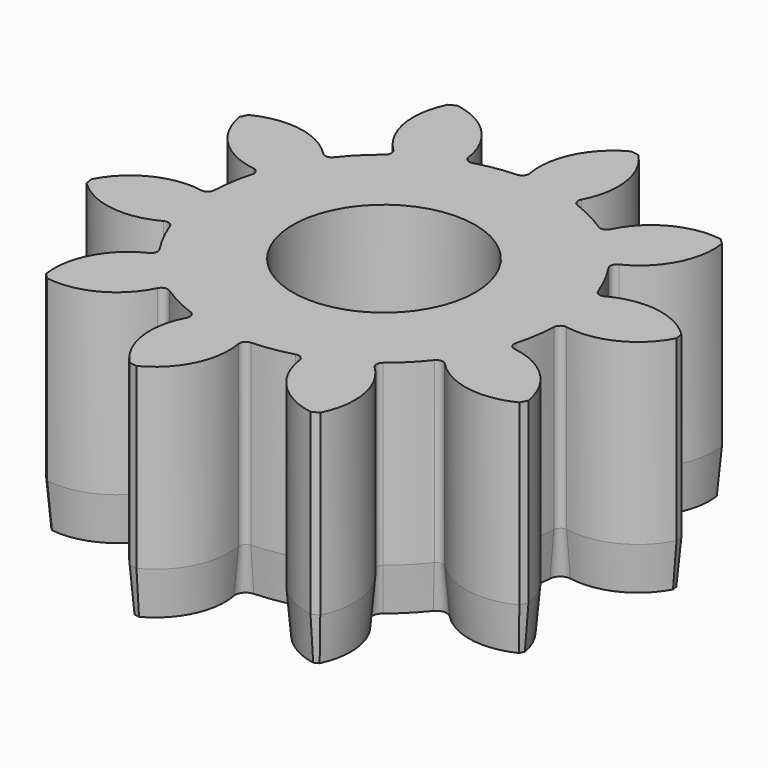
from build123d import *

# Parameters (mm, degrees)
F4_DEPTH  = 8
F6_COUNT  = 10
F6_ANGLE  = 324
F7_R      = 7.9
F7_R_2    = 4.1
F8_DEPTH  = 8
F8_FACE_R = 4.1
F9_DEPTH  = 2
F9_TAPER  = 5


with BuildPart() as f4:
    # F3 (on Top) → F4 (new body)
    with BuildSketch(Plane.XY):
        with BuildLine():
            ThreePointArc((-0.0543494524, 8.2453851705), (-0.1155472635, 8.0049468092), (-0.3368663268, 7.8928145219))
            ThreePointArc((-0.3368663268, 7.8928145219), (1.2358322738, 7.8027378907), (2.759392736, 7.4024152632))
            ThreePointArc((2.759392736, 7.4024152632), (2.583556581, 7.5774507574), (2.5996535437, 7.8250323913))
            ThreePointArc((2.5996535437, 7.8250323913), (2.9578363171, 9.8680236351), (2.0337135836, 11.7249310898))
            Line((2.0337135836, 11.7249310898), (1.6890264086, 11.7795241751))
            ThreePointArc((1.6890264086, 11.7795241751), (0.2363175007, 10.2990698697), (-0.0543494524, 8.2453851705))
        make_face()
    extrude(amount=F4_DEPTH)


with BuildPart() as f6_1:
    # F6: instance of F4
    add(f4.part.rotate(Axis((0, 0, 6), (0, 0, 1)), 1 * F6_ANGLE / (F6_COUNT - 1)))


with BuildPart() as f6_2:
    # F6: instance of F4
    add(f4.part.rotate(Axis((0, 0, 6), (0, 0, 1)), 2 * F6_ANGLE / (F6_COUNT - 1)))


with BuildPart() as f6_3:
    # F6: instance of F4
    add(f4.part.rotate(Axis((0, 0, 6), (0, 0, 1)), 3 * F6_ANGLE / (F6_COUNT - 1)))


with BuildPart() as f6_4:
    # F6: instance of F4
    add(f4.part.rotate(Axis((0, 0, 6), (0, 0, 1)), 4 * F6_ANGLE / (F6_COUNT - 1)))


with BuildPart() as f6_5:
    # F6: instance of F4
    add(f4.part.rotate(Axis((0, 0, 6), (0, 0, 1)), 5 * F6_ANGLE / (F6_COUNT - 1)))


with BuildPart() as f6_6:
    # F6: instance of F4
    add(f4.part.rotate(Axis((0, 0, 6), (0, 0, 1)), 6 * F6_ANGLE / (F6_COUNT - 1)))


with BuildPart() as f6_7:
    # F6: instance of F4
    add(f4.part.rotate(Axis((0, 0, 6), (0, 0, 1)), 7 * F6_ANGLE / (F6_COUNT - 1)))


with BuildPart() as f6_8:
    # F6: instance of F4
    add(f4.part.rotate(Axis((0, 0, 6), (0, 0, 1)), 8 * F6_ANGLE / (F6_COUNT - 1)))


with BuildPart() as f6_9:
    # F6: instance of F4
    add(f4.part.rotate(Axis((0, 0, 6), (0, 0, 1)), 9 * F6_ANGLE / (F6_COUNT - 1)))


with BuildPart() as f4_1:
    add(f4.part)

    add(f6_1.part)  # F8 merges F6_1

    add(f6_2.part)  # F8 merges F6_2

    add(f6_3.part)  # F8 merges F6_3

    add(f6_4.part)  # F8 merges F6_4

    add(f6_5.part)  # F8 merges F6_5

    add(f6_6.part)  # F8 merges F6_6

    add(f6_7.part)  # F8 merges F6_7

    add(f6_8.part)  # F8 merges F6_8

    add(f6_9.part)  # F8 merges F6_9
    # F7 (on Top) → F8 (join)
    with BuildSketch(Plane.XY):
        Circle(F7_R)
        Circle(F7_R_2, mode=Mode.SUBTRACT)
    extrude(amount=F8_DEPTH)

    # F8_face (on face) → F9 (join)
    with BuildSketch(Plane(origin=(0, 0, 0), x_dir=(1, 0, 0), z_dir=(0, 0, -1))):
        with BuildLine():
            ThreePointArc((2.5996535437, -7.8250323913), (2.583556581, -7.5774507574), (2.759392736, -7.4024152632))
            ThreePointArc((2.759392736, -7.4024152632), (3.5865249479, -7.0389515411), (4.3667493918, -6.5834261406))
            ThreePointArc((4.3667493918, -6.5834261406), (4.61170998, -6.5440549852), (4.8025461721, -6.7026025347))
            ThreePointArc((4.8025461721, -6.7026025347), (6.2448262559, -8.1932186091), (8.2902816576, -8.5370504296))
            Line((8.2902816576, -8.5370504296), (8.5370504296, -8.2902816576))
            ThreePointArc((8.5370504296, -8.2902816576), (8.1932186091, -6.2448262559), (6.7026025347, -4.8025461721))
            ThreePointArc((6.7026025347, -4.8025461721), (6.5440549852, -4.61170998), (6.5834261406, -4.3667493918))
            ThreePointArc((6.5834261406, -4.3667493918), (7.0389515411, -3.5865249479), (7.4024152632, -2.759392736))
            ThreePointArc((7.4024152632, -2.759392736), (7.5774507574, -2.583556581), (7.8250323913, -2.5996535437))
            ThreePointArc((7.8250323913, -2.5996535437), (9.8680236351, -2.9578363171), (11.7249310898, -2.0337135836))
            Line((11.7249310898, -2.0337135836), (11.7795241751, -1.6890264086))
            ThreePointArc((11.7795241751, -1.6890264086), (10.2990698697, -0.2363175007), (8.2453851705, 0.0543494524))
            ThreePointArc((8.2453851705, 0.0543494524), (8.0049468092, 0.1155472635), (7.8928145219, 0.3368663268))
            ThreePointArc((7.8928145219, 0.3368663268), (7.8027378907, 1.2358322738), (7.6106101028, 2.1186349055))
            ThreePointArc((7.6106101028, 2.1186349055), (7.6488628936, 2.3637726252), (7.8586222002, 2.496274742))
            ThreePointArc((7.8586222002, 2.496274742), (9.7219713876, 3.4073389149), (10.6810553613, 5.2464327279))
            Line((10.6810553613, 5.2464327279), (10.522620057, 5.5573795206))
            ThreePointArc((10.522620057, 5.5573795206), (8.4710264926, 5.8624565076), (6.6387109215, 4.8904854333))
            ThreePointArc((6.6387109215, 4.8904854333), (6.4082210303, 4.7986693797), (6.1874160228, 4.9118105583))
            ThreePointArc((6.1874160228, 4.9118105583), (5.5861435714, 5.5861435714), (4.9118105583, 6.1874160228))
            ThreePointArc((4.9118105583, 6.1874160228), (4.7986693797, 6.4082210303), (4.8904854333, 6.6387109215))
            ThreePointArc((4.8904854333, 6.6387109215), (5.8624565076, 8.4710264926), (5.5573795206, 10.522620057))
            Line((5.5573795206, 10.522620057), (5.2464327279, 10.6810553613))
            ThreePointArc((5.2464327279, 10.6810553613), (3.4073389149, 9.7219713876), (2.496274742, 7.8586222002))
            ThreePointArc((2.496274742, 7.8586222002), (2.3637726252, 7.6488628936), (2.1186349055, 7.6106101028))
            ThreePointArc((2.1186349055, 7.6106101028), (1.2358322738, 7.8027378907), (0.3368663268, 7.8928145219))
            ThreePointArc((0.3368663268, 7.8928145219), (0.1155472635, 8.0049468092), (0.0543494524, 8.2453851705))
            ThreePointArc((0.0543494524, 8.2453851705), (-0.2363175007, 10.2990698697), (-1.6890264086, 11.7795241751))
            Line((-1.6890264086, 11.7795241751), (-2.0337135836, 11.7249310898))
            ThreePointArc((-2.0337135836, 11.7249310898), (-2.9578363171, 9.8680236351), (-2.5996535437, 7.8250323913))
            ThreePointArc((-2.5996535437, 7.8250323913), (-2.583556581, 7.5774507574), (-2.759392736, 7.4024152632))
            ThreePointArc((-2.759392736, 7.4024152632), (-3.5865249479, 7.0389515411), (-4.3667493918, 6.5834261406))
            ThreePointArc((-4.3667493918, 6.5834261406), (-4.61170998, 6.5440549852), (-4.8025461721, 6.7026025347))
            ThreePointArc((-4.8025461721, 6.7026025347), (-6.2448262559, 8.1932186091), (-8.2902816576, 8.5370504296))
            Line((-8.2902816576, 8.5370504296), (-8.5370504296, 8.2902816576))
            ThreePointArc((-8.5370504296, 8.2902816576), (-8.1932186091, 6.2448262559), (-6.7026025347, 4.8025461721))
            ThreePointArc((-6.7026025347, 4.8025461721), (-6.5440549852, 4.61170998), (-6.5834261406, 4.3667493918))
            ThreePointArc((-6.5834261406, 4.3667493918), (-7.0389515411, 3.5865249479), (-7.4024152632, 2.759392736))
            ThreePointArc((-7.4024152632, 2.759392736), (-7.5774507574, 2.583556581), (-7.8250323913, 2.5996535437))
            ThreePointArc((-7.8250323913, 2.5996535437), (-9.8680236351, 2.9578363171), (-11.7249310898, 2.0337135836))
            Line((-11.7249310898, 2.0337135836), (-11.7795241751, 1.6890264086))
            ThreePointArc((-11.7795241751, 1.6890264086), (-10.2990698697, 0.2363175007), (-8.2453851705, -0.0543494524))
            ThreePointArc((-8.2453851705, -0.0543494524), (-8.0049468092, -0.1155472635), (-7.8928145219, -0.3368663268))
            ThreePointArc((-7.8928145219, -0.3368663268), (-7.8027378907, -1.2358322738), (-7.6106101028, -2.1186349055))
            ThreePointArc((-7.6106101028, -2.1186349055), (-7.6488628936, -2.3637726252), (-7.8586222002, -2.496274742))
            ThreePointArc((-7.8586222002, -2.496274742), (-9.7219713876, -3.4073389149), (-10.6810553613, -5.2464327279))
            Line((-10.6810553613, -5.2464327279), (-10.522620057, -5.5573795206))
            ThreePointArc((-10.522620057, -5.5573795206), (-8.4710264926, -5.8624565076), (-6.6387109215, -4.8904854333))
            ThreePointArc((-6.6387109215, -4.8904854333), (-6.4082210303, -4.7986693797), (-6.1874160228, -4.9118105583))
            ThreePointArc((-6.1874160228, -4.9118105583), (-5.5861435714, -5.5861435714), (-4.9118105583, -6.1874160228))
            ThreePointArc((-4.9118105583, -6.1874160228), (-4.7986693797, -6.4082210303), (-4.8904854333, -6.6387109215))
            ThreePointArc((-4.8904854333, -6.6387109215), (-5.8624565076, -8.4710264926), (-5.5573795206, -10.522620057))
            Line((-5.5573795206, -10.522620057), (-5.2464327279, -10.6810553613))
            ThreePointArc((-5.2464327279, -10.6810553613), (-3.4073389149, -9.7219713876), (-2.496274742, -7.8586222002))
            ThreePointArc((-2.496274742, -7.8586222002), (-2.3637726252, -7.6488628936), (-2.1186349055, -7.6106101028))
            ThreePointArc((-2.1186349055, -7.6106101028), (-1.2358322738, -7.8027378907), (-0.3368663268, -7.8928145219))
            ThreePointArc((-0.3368663268, -7.8928145219), (-0.1155472635, -8.0049468092), (-0.0543494524, -8.2453851705))
            ThreePointArc((-0.0543494524, -8.2453851705), (0.2363175007, -10.2990698697), (1.6890264086, -11.7795241751))
            Line((1.6890264086, -11.7795241751), (2.0337135836, -11.7249310898))
            ThreePointArc((2.0337135836, -11.7249310898), (2.9578363171, -9.8680236351), (2.5996535437, -7.8250323913))
        make_face()
        Circle(F8_FACE_R, mode=Mode.SUBTRACT)
    extrude(amount=F9_DEPTH, taper=F9_TAPER)


solid = f4_1.part
